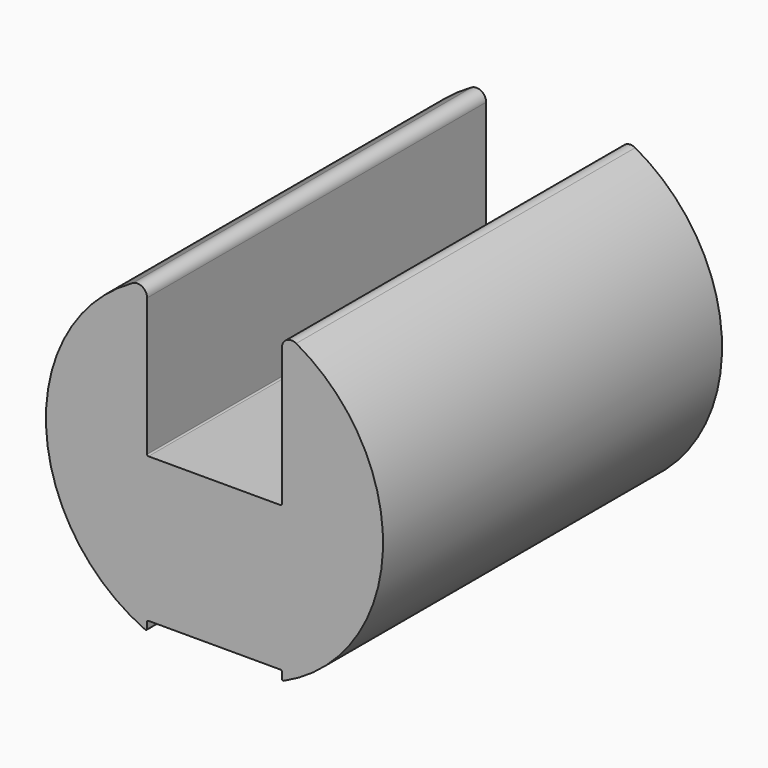
from build123d import *

# Parameters (mm, degrees)
F1_DEPTH = 22


with BuildPart() as f1:
    # F0 (on Front) → F1 (new body)
    with BuildSketch(Plane.XZ):
        with BuildLine():
            ThreePointArc((-3.5, 7.215435), (-3.74624, 7.646255), (-4.242424, 7.652734))
            ThreePointArc((-4.242424, 7.652734), (-8.742634, -0.358964), (-3.600774, -7.974768))
            ThreePointArc((-3.600774, -7.974768), (-3.532667, -7.969677), (-3.5, -7.909699))
            Line((-3.5, -7.909699), (-3.5, -7.590902))
            ThreePointArc((-3.5, -7.590902), (-3.479089, -7.540418), (-3.428606, -7.519507))
            Line((-3.428606, -7.519507), (3.428606, -7.519507))
            ThreePointArc((3.428606, -7.519507), (3.479089, -7.540418), (3.5, -7.590902))
            Line((3.5, -7.590902), (3.5, -7.909699))
            ThreePointArc((3.5, -7.909699), (3.532667, -7.969677), (3.600774, -7.974768))
            ThreePointArc((3.600774, -7.974768), (8.742634, -0.358964), (4.242424, 7.652734))
            ThreePointArc((4.242424, 7.652734), (3.74624, 7.646255), (3.5, 7.215435))
            Line((3.5, 7.215435), (3.5, 0.071394))
            ThreePointArc((3.5, 0.071394), (3.479089, 0.020911), (3.428606, 0))
            Line((3.428606, 0), (-3.428606, 0))
            ThreePointArc((-3.428606, 0), (-3.479089, 0.020911), (-3.5, 0.071394))
            Line((-3.5, 0.071394), (-3.5, 7.215435))
        make_face()
    extrude(amount=F1_DEPTH)


solid = f1.part
